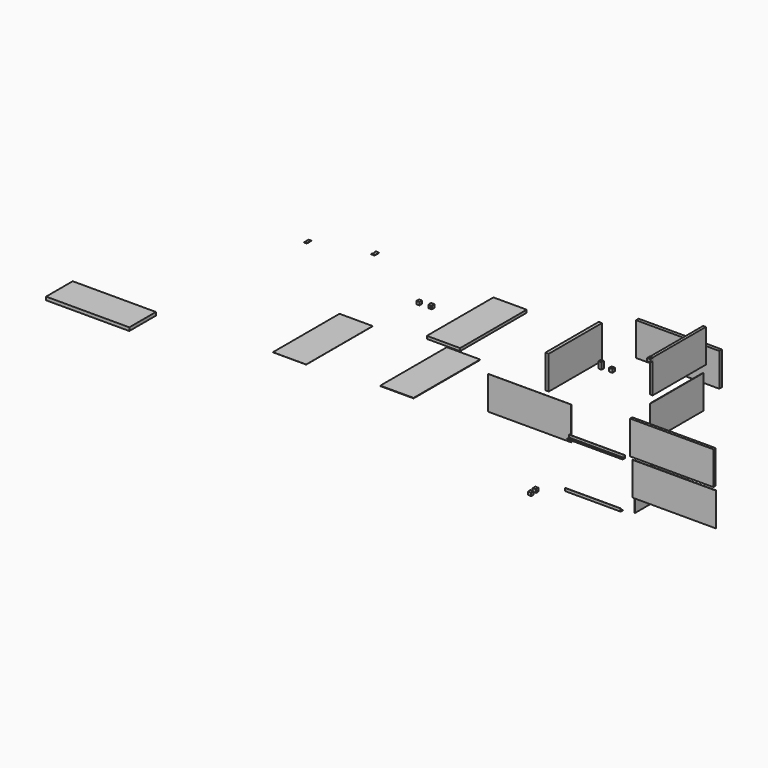
from build123d import *

# Parameters (mm, degrees)
F0_W      = 762
F0_H      = 304.8
F1_DEPTH  = 25
F2_W      = 762
F2_H      = 304.8
F3_DEPTH  = 4
F4_W      = 762
F4_H      = 304.8
F5_DEPTH  = 1
F6_W      = 609.6
F6_H      = 304.8
F7_DEPTH  = 25
F8_W      = 609.6
F8_H      = 304.8
F9_DEPTH  = 4
F10_W     = 609.6
F10_H     = 304.8
F11_DEPTH = 1
F13_DEPTH = 508
F15_DEPTH = 508
F16_W     = 304.8
F16_H     = 762
F17_DEPTH = 25
F18_W     = 304.8
F18_H     = 762
F19_DEPTH = 1
F20_W     = 304.8
F20_H     = 762
F21_DEPTH = 4
F22_R     = 2.5
F22_R_2   = 1.5
F23_DEPTH = 12.7
F24_DEPTH = 25.4
F26_DEPTH = 25.4
F27_W     = 19.05
F27_H     = 3.5
F28_DEPTH = 25.4
F29_R     = 2.5
F29_R_2   = 1.5
F30_DEPTH = 25.4
F31_DEPTH = 12.7
F32_W     = 2
F32_H     = 3.5
F33_DEPTH = 25.4
F34_DEPTH = 12.7
F35_W     = 25.4
F35_H     = 3.5
F36_DEPTH = 50.8
F37_W     = 29
F37_H     = 29
F38_DEPTH = 25.4
F39_W     = 28
F39_H     = 28
F40_DEPTH = 60
F41_W     = 30
F41_H     = 30
F41_W_2   = 29
F41_H_2   = 29
F42_DEPTH = 30
F43_W     = 30
F43_H     = 609.6
F44_DEPTH = 304.8
F45_W     = 762
F45_H     = 30
F46_DEPTH = 304.8
F47_W     = 28
F47_H     = 28
F48_DEPTH = 30
F49_W     = 30
F49_H     = 30
F49_W_2   = 29
F49_H_2   = 29
F50_DEPTH = 30
F51_W     = 28
F51_H     = 28
F52_DEPTH = 30
F53_W     = 30
F53_H     = 30
F53_W_2   = 29
F53_H_2   = 29
F54_DEPTH = 30
F55_W     = 762
F55_H     = 304.8
F56_DEPTH = 30


with BuildPart() as f1:
    # F0 (on Front) → F1 (new body)
    with BuildSketch(Plane.XZ):
        with Locations((599.8386698723, 462.0880805476)):
            Rectangle(F0_W, F0_H)
    extrude(amount=F1_DEPTH)


with BuildPart() as f3:
    # F2 (on Front) → F3 (new body)
    with BuildSketch(Plane.XZ):
        with Locations((605.0495383174, 122.5652631044)):
            Rectangle(F2_W, F2_H)
    extrude(amount=F3_DEPTH)


with BuildPart() as f5:
    # F4 (on Front) → F5 (new body)
    with BuildSketch(Plane.XZ):
        with Locations((-721.1805027962, 383.3438879953)):
            Rectangle(F4_W, F4_H)
    extrude(amount=F5_DEPTH)


with BuildPart() as f7:
    # F6 (on Right) → F7 (new body)
    with BuildSketch(Plane.YZ):
        with Locations((779.2355034828, 687.4139923522)):
            Rectangle(F6_W, F6_H)
    extrude(amount=F7_DEPTH)

    # F37 (on face) → F38 (join)
    with BuildSketch(Plane.XY.offset(839.8139923522)):
        Polygon((-2.5, 444.4355034828), (27.5, 444.4355034828), (27.5, 474.4355034828), (25, 474.4355034828), (0, 474.4355034828), (-2.5, 474.4355034828), align=None)
        with Locations((12.5, 459.4355034828)):
            Rectangle(F37_W, F37_H, mode=Mode.SUBTRACT)
    extrude(amount=-F38_DEPTH)


with BuildPart() as f9:
    # F8 (on Right) → F9 (new body)
    with BuildSketch(Plane.YZ):
        with Locations((777.5092337608, 309.7554932385)):
            Rectangle(F8_W, F8_H)
    extrude(amount=F9_DEPTH)


with BuildPart() as f11:
    # F10 (on Right) → F11 (new body)
    with BuildSketch(Plane.YZ):
        with Locations((605.4046195984, -198.3824845113)):
            Rectangle(F10_W, F10_H)
    extrude(amount=F11_DEPTH)


with BuildPart() as f13:
    # F12 (on Right) → F13 (new body)
    with BuildSketch(Plane.YZ):
        Polygon((-493.0915064335, 174.6528752655), (-495.0915064335, 174.6528752655), (-495.0915064335, 149.2528752655), (-469.6915064335, 149.2528752655), (-469.6915064335, 151.2528752655), (-493.0915064335, 151.2528752655), align=None)
    extrude(amount=F13_DEPTH)


with BuildPart() as f15:
    # F14 (on Right) → F15 (new body)
    with BuildSketch(Plane.YZ):
        Polygon((-447.1541363748, 560.3632873245), (-447.1541363748, 585.7632873245), (-449.1541363748, 585.7632873245), (-449.1541363748, 562.3632873245), (-472.5541363748, 562.3632873245), (-472.5541363748, 560.3632873245), align=None)
    extrude(amount=F15_DEPTH)


with BuildPart() as f17:
    # F16 (on Top) → F17 (new body)
    with BuildSketch(Plane.XY):
        with Locations((-2272.0654850662, 1332.7294546127)):
            Rectangle(F16_W, F16_H)
    extrude(amount=F17_DEPTH)


with BuildPart() as f19:
    # F18 (on Top) → F19 (new body)
    with BuildSketch(Plane.XY):
        with Locations((-3001.8648662765, 483.1261294842)):
            Rectangle(F18_W, F18_H)
    extrude(amount=F19_DEPTH)


with BuildPart() as f21:
    # F20 (on Top) → F21 (new body)
    with BuildSketch(Plane.XY):
        with Locations((-2075.48878479, 554.0529595732)):
            Rectangle(F20_W, F20_H)
    extrude(amount=F21_DEPTH)


with BuildPart() as f23:
    # F22 (on Front) → F23 (new body, symmetric)
    with BuildSketch(Plane.XZ):
        with Locations((-2743.0295944214, 1064.3863677979)):
            Circle(F22_R)
        with Locations((-2743.0295944214, 1064.3863677979)):
            Circle(F22_R_2, mode=Mode.SUBTRACT)
    extrude(amount=F23_DEPTH, both=True)

    # F22 (on Front) → F24 (join, symmetric)
    with BuildSketch(Plane.XZ):
        with Locations((-2743.0295944214, 1064.3863677979)):
            Circle(F22_R_2)
    extrude(amount=F24_DEPTH, both=True)

    # F25 (on face) → F26 (join)
    with BuildSketch(Plane(origin=(0, 12.7, 0), x_dir=(-1, 0, 0), z_dir=(0, 1, 0))):
        with BuildLine():
            Line((2746.8149515285, 1066.1363677979), (2744.8149515285, 1066.1363677979))
            ThreePointArc((2744.8149515285, 1066.1363677979), (2745.3440482196, 1065.3315152023), (2745.5295944214, 1064.3863677979))
            ThreePointArc((2745.5295944214, 1064.3863677979), (2745.3440482196, 1063.4412203934), (2744.8149515285, 1062.6363677979))
            Line((2744.8149515285, 1062.6363677979), (2746.8149515285, 1062.6363677979))
            Line((2746.8149515285, 1062.6363677979), (2746.8149515285, 1066.1363677979))
        make_face()
    extrude(amount=-F26_DEPTH)

    # F27 (on face) → F28 (join, symmetric)
    with BuildSketch(Plane.XZ):
        with Locations((-2756.3399515285, 1064.3863677979)):
            Rectangle(F27_W, F27_H)
    extrude(amount=F28_DEPTH, both=True)


with BuildPart() as f30:
    # F29 (on Front) → F30 (new body, symmetric)
    with BuildSketch(Plane.XZ):
        with Locations((-2149.8839855194, 1169.4210767746)):
            Circle(F29_R)
        with Locations((-2149.8839855194, 1169.4210767746)):
            Circle(F29_R_2, mode=Mode.SUBTRACT)
    extrude(amount=F30_DEPTH, both=True)

    # F29 (on Front) → F31 (cut, symmetric)
    with BuildSketch(Plane.XZ):
        with Locations((-2149.8839855194, 1169.4210767746)):
            Circle(F29_R)
        with Locations((-2149.8839855194, 1169.4210767746)):
            Circle(F29_R_2, mode=Mode.SUBTRACT)
    extrude(amount=F31_DEPTH, both=True, mode=Mode.SUBTRACT)

    # F32 (on face) → F33 (join, symmetric)
    with BuildSketch(Plane.XZ):
        with Locations((-2147.1759129318, 1169.3797089655)):
            Rectangle(F32_W, F32_H)
    extrude(amount=F33_DEPTH, both=True)

    # F32 (on face) → F34 (cut, symmetric)
    with BuildSketch(Plane.XZ):
        with Locations((-2147.1759129318, 1169.3797089655)):
            Rectangle(F32_W, F32_H)
    extrude(amount=F34_DEPTH, both=True, mode=Mode.SUBTRACT)

    # F35 (on face) → F36 (join)
    with BuildSketch(Plane.XZ.offset(25.4)):
        with Locations((-2133.4759129318, 1169.3797089655)):
            Rectangle(F35_W, F35_H)
    extrude(amount=-F36_DEPTH)


with BuildPart() as f40:
    # F39 (on Top) → F40 (new body)
    with BuildSketch(Plane.XY):
        with Locations((-1164.6428689957, 1373.2977523804)):
            Rectangle(F39_W, F39_H)
    extrude(amount=F40_DEPTH)


with BuildPart() as f42:
    # F41 (on Top) → F42 (new body)
    with BuildSketch(Plane.XY):
        with Locations((-1076.0562123923, 1384.9940519333)):
            Rectangle(F41_W, F41_H)
        with Locations((-1076.0562123923, 1384.9940519333)):
            Rectangle(F41_W_2, F41_H_2, mode=Mode.SUBTRACT)
    extrude(amount=F42_DEPTH)


with BuildPart() as f44:
    # F43 (on Top) → F44 (new body)
    with BuildSketch(Plane.XY):
        with Locations((-1249.3088068203, 1164.0228033066)):
            Rectangle(F43_W, F43_H)
    extrude(amount=F44_DEPTH)


with BuildPart() as f46:
    # F45 (on Top) → F46 (new body)
    with BuildSketch(Plane.XY):
        with Locations((-690.4368151316, 1670.4653501511)):
            Rectangle(F45_W, F45_H)
    extrude(amount=F46_DEPTH)


with BuildPart() as f48:
    # F47 (on Front) → F48 (new body)
    with BuildSketch(Plane.XZ):
        with Locations((-1720.4962798794, 916.2989854813)):
            Rectangle(F47_W, F47_H)
    extrude(amount=F48_DEPTH)


with BuildPart() as f50:
    # F49 (on Front) → F50 (new body)
    with BuildSketch(Plane.XZ):
        with Locations((-1608.6968025134, 922.2461204529)):
            Rectangle(F49_W, F49_H)
        with Locations((-1608.6968025134, 922.2461204529)):
            Rectangle(F49_W_2, F49_H_2, mode=Mode.SUBTRACT)
    extrude(amount=F50_DEPTH)


with BuildPart() as f52:
    # F51 (on Right) → F52 (new body)
    with BuildSketch(Plane.YZ):
        with Locations((-907.4537928112, 306.2972426414)):
            Rectangle(F51_W, F51_H)
    extrude(amount=F52_DEPTH)


with BuildPart() as f54:
    # F53 (on Right) → F54 (new body)
    with BuildSketch(Plane.YZ):
        with Locations((-851.890368133, 310.2996866703)):
            Rectangle(F53_W, F53_H)
        with Locations((-851.890368133, 310.2996866703)):
            Rectangle(F53_W_2, F53_H_2, mode=Mode.SUBTRACT)
    extrude(amount=F54_DEPTH)


with BuildPart() as f56:
    # F55 (on Top) → F56 (new body)
    with BuildSketch(Plane.XY):
        with Locations((-4542.7856445312, -129.7550738062)):
            Rectangle(F55_W, F55_H)
    extrude(amount=F56_DEPTH)


solid = Compound([f1.part, f3.part, f5.part, f7.part, f9.part, f11.part, f13.part, f15.part, f17.part, f19.part, f21.part, f23.part, f30.part, f40.part, f42.part, f44.part, f46.part, f48.part, f50.part, f52.part, f54.part, f56.part])
